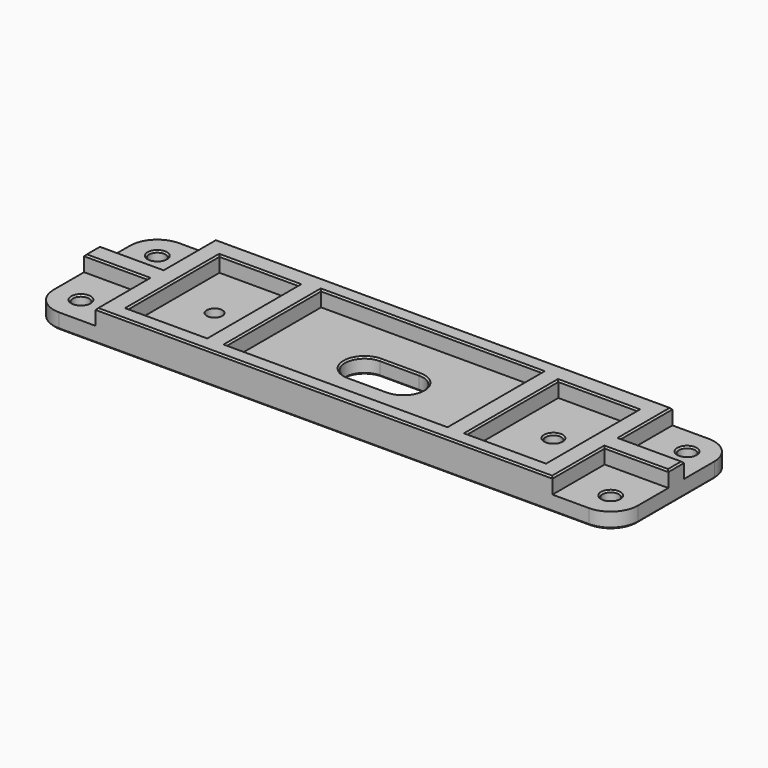
from build123d import *

# Parameters (mm, degrees)
SKETCH009_R     = 2.1
SKETCH009_R_2   = 2
PAD003_DEPTH    = 4
SKETCH010_W     = 20.3
SKETCH010_H     = 29.4
SKETCH010_W_2   = 56.7
SKETCH010_H_2   = 30.4
PAD004_DEPTH    = 4
CHAMFER003_SIZE = 0.4


with BuildPart() as part:
    # Sketch009 → Pad003 (new body)
    with BuildSketch(Plane.XY):
        with BuildLine():
            Line((-68, 19.25), (68, 19.25))
            ThreePointArc((75, 12.25), (72.9497474683, 17.1997474683), (68, 19.25))
            Line((75, 12.25), (75, -12.25))
            ThreePointArc((68, -19.25), (72.9497474683, -17.1997474683), (75, -12.25))
            Line((-68, -19.25), (68, -19.25))
            ThreePointArc((-75, -12.25), (-72.9497474683, -17.1997474683), (-68, -19.25))
            Line((-75, 12.25), (-75, -12.25))
            ThreePointArc((-68, 19.25), (-72.9497474683, 17.1997474683), (-75, 12.25))
        make_face()
        with Locations((-68, 12.25)):
            Circle(SKETCH009_R, mode=Mode.SUBTRACT)
        with Locations((-68, -12.25)):
            Circle(SKETCH009_R, mode=Mode.SUBTRACT)
        with Locations((68, 12.25)):
            Circle(SKETCH009_R, mode=Mode.SUBTRACT)
        with Locations((68, -12.25)):
            Circle(SKETCH009_R, mode=Mode.SUBTRACT)
        with Locations((-43.5, 0)):
            Circle(SKETCH009_R_2, mode=Mode.SUBTRACT)
        with Locations((43.5, 0)):
            Circle(SKETCH009_R_2, mode=Mode.SUBTRACT)
        with BuildLine():
            ThreePointArc((-5, 5), (-10, 0), (-5, -5))
            Line((-5, -5), (5, -5))
            ThreePointArc((5, -5), (10, 0), (5, 5))
            Line((-5, 5), (5, 5))
        make_face(mode=Mode.SUBTRACT)
    extrude(amount=PAD003_DEPTH)

    # Sketch010 (on Face20 of Pad003) → Pad004 (join)
    with BuildSketch(Plane.XY.offset(4)):
        Polygon((-58.65, 19.25), (58.65, 19.25), (58.65, 2.5), (75, 2.5), (75, -2.5), (58.65, -2.5), (58.65, -19.25), (-58.65, -19.25), (-58.65, -2.5), (-75, -2.5), (-75, 2.5), (-58.65, 2.5), align=None)
        with Locations((-43.5, -0.45)):
            Rectangle(SKETCH010_W, SKETCH010_H, mode=Mode.SUBTRACT)
        with Locations((43.5, -0.45)):
            Rectangle(SKETCH010_W, SKETCH010_H, mode=Mode.SUBTRACT)
        with Locations((0, 0.05)):
            Rectangle(SKETCH010_W_2, SKETCH010_H_2, mode=Mode.SUBTRACT)
    extrude(amount=PAD004_DEPTH)

    # Chamfer003
    chamfer003_edges = [part.edges().sort_by_distance(p)[0] for p in [
        (0, 19.25, 0),
        (72.949747, 17.199747, 0),
        (75, 0, 0),
        (72.949747, -17.199747, 0),
        (0, -19.25, 0),
        (-72.949747, -17.199747, 0),
        (-75, 0, 0),
        (-72.949747, 17.199747, 0),
        (-10, 0, 0),
        (0, -5, 0),
        (10, 0, 0),
        (0, 5, 0),
        (65.9, -12.25, 0),
        (65.9, 12.25, 0),
        (-70.1, -12.25, 0),
        (-70.1, 12.25, 0),
        (41.5, 0, 0),
        (-45.5, 0, 0),
        (-58.65, 10.875, 8),
        (0, 19.25, 8),
        (58.65, 10.875, 8),
        (66.825, 2.5, 8),
        (75, 0, 8),
        (66.825, -2.5, 8),
        (58.65, -10.875, 8),
        (0, -19.25, 8),
        (-58.65, -10.875, 8),
        (-66.825, -2.5, 8),
        (-75, 0, 8),
        (-66.825, 2.5, 8),
        (-28.35, 0.05, 8),
        (0, -15.15, 8),
        (28.35, 0.05, 8),
        (0, 15.25, 8),
        (33.35, -0.45, 8),
        (43.5, -15.15, 8),
        (53.65, -0.45, 8),
        (43.5, 14.25, 8),
        (-53.65, -0.45, 8),
        (-43.5, -15.15, 8),
        (-33.35, -0.45, 8),
        (-43.5, 14.25, 8),
        (-70.1, -12.25, 4),
        (-10, 0, 4),
        (0, 5, 4),
        (10, 0, 4),
        (0, -5, 4),
        (41.5, 0, 4),
        (65.9, -12.25, 4),
        (65.9, 12.25, 4),
        (-70.1, 12.25, 4),
    ]]
    chamfer(chamfer003_edges, length=CHAMFER003_SIZE)


solid = part.part
